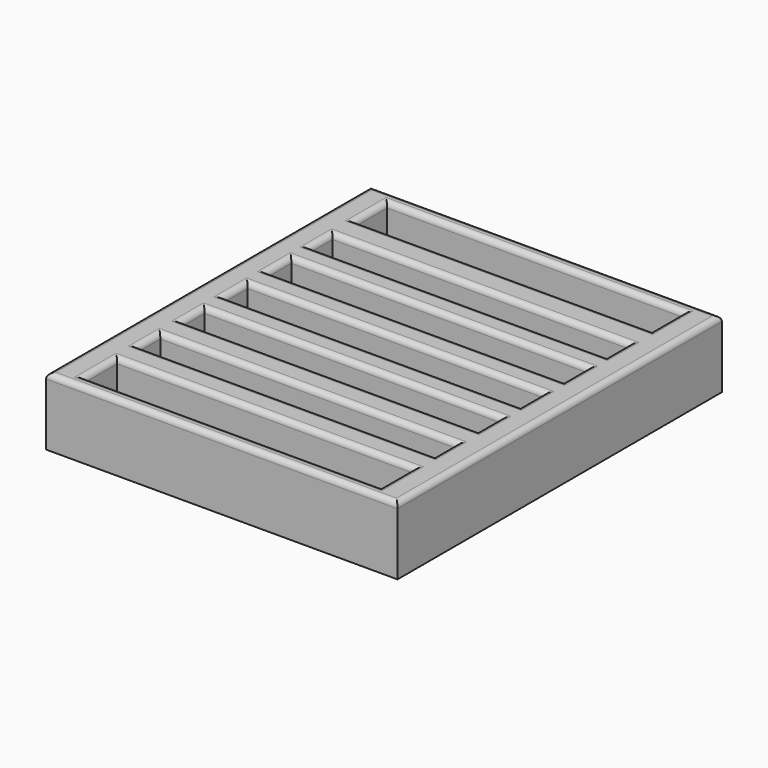
from build123d import *

# Parameters (mm, degrees)
F0_W     = 16.51
F0_H     = 19.05
F0_W_2   = 13.9302
F0_H_2   = 1.930798
F0_H_3   = 1.311754
F0_H_4   = 1.36334
F0_H_5   = 1.430876
F0_H_6   = 1.339917
F0_H_7   = 1.881583
F1_DEPTH = 3.175
F2_R     = 0.254


with BuildPart() as f1:
    # F0 (on Top) → F1 (new body)
    with BuildSketch(Plane.XY):
        with Locations((0.161979, -0.164203)):
            Rectangle(F0_W, F0_H)
        with Locations((0.161979, -8.088804)):
            Rectangle(F0_W_2, F0_H_2, mode=Mode.SUBTRACT)
        with Locations((0.161979, -5.249125)):
            Rectangle(F0_W_2, F0_H_3, mode=Mode.SUBTRACT)
        with Locations((0.161979, -2.673489)):
            Rectangle(F0_W_2, F0_H_4, mode=Mode.SUBTRACT)
        Polygon((-6.803121, 0.538338), (7.127079, 0.538338), (7.127079, -0.876588), (-6.803121, -0.876588), (-6.803121, -0.164203), align=None, mode=Mode.SUBTRACT)
        with Locations((0.161979, 2.388693)):
            Rectangle(F0_W_2, F0_H_5, mode=Mode.SUBTRACT)
        with Locations((0.161979, 4.85742)):
            Rectangle(F0_W_2, F0_H_6, mode=Mode.SUBTRACT)
        with Locations((0.161979, 7.785006)):
            Rectangle(F0_W_2, F0_H_7, mode=Mode.SUBTRACT)
    extrude(amount=F1_DEPTH)

    # F2
    f2_edges = [f1.edges().sort_by_distance(p)[0] for p in [
        (-8.093021, -0.164203, 3.175),
        (0.161979, -9.689203, 3.175),
        (8.416979, -0.164203, 3.175),
        (0.161979, 9.360797, 3.175),
        (-6.803121, -8.088804, 3.175),
        (0.161979, -7.123405, 3.175),
        (7.127079, -8.088804, 3.175),
        (0.161979, -9.054203, 3.175),
        (0.161979, -4.593248, 3.175),
        (7.127079, -5.249125, 3.175),
        (0.161979, -5.905002, 3.175),
        (-6.803121, -5.249125, 3.175),
        (0.161979, -1.991819, 3.175),
        (7.127079, -2.673489, 3.175),
        (0.161979, -3.355159, 3.175),
        (-6.803121, -2.673489, 3.175),
        (0.161979, 0.538338, 3.175),
        (7.127079, -0.169125, 3.175),
        (0.161979, -0.876588, 3.175),
        (-6.803121, -0.169125, 3.175),
        (-6.803121, 2.388693, 3.175),
        (0.161979, 3.104131, 3.175),
        (7.127079, 2.388693, 3.175),
        (0.161979, 1.673255, 3.175),
        (0.161979, 5.527379, 3.175),
        (7.127079, 4.857421, 3.175),
        (0.161979, 4.187462, 3.175),
        (-6.803121, 4.857421, 3.175),
        (7.127079, 7.785005, 3.175),
        (0.161979, 6.844214, 3.175),
        (-6.803121, 7.785005, 3.175),
        (0.161979, 8.725797, 3.175),
    ]]
    fillet(f2_edges, radius=F2_R)


solid = f1.part
